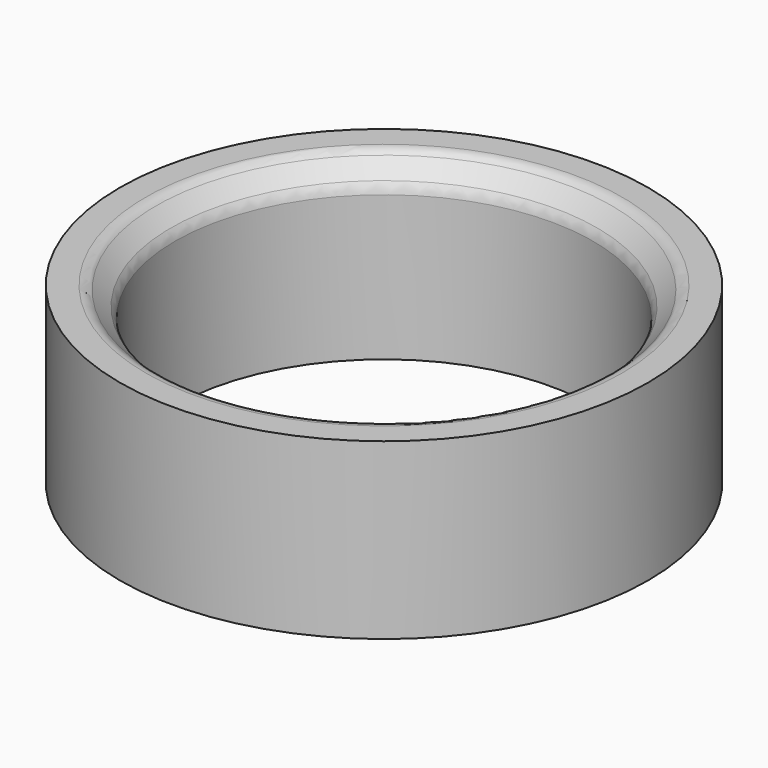
from build123d import *

# Parameters (mm, degrees)
F2_R = 1.5
F3_R = 1.5


with BuildPart() as f1:
    # F0 (on Front) → F1 (revolve)
    with BuildSketch(Plane.XZ):
        Polygon((21.6, 15.6), (21.6, 0), (27.3, 0), (27.3, 18), (24, 18), align=None)
    revolve(axis=Axis((0, 0, 4.861747), (0, 0, -1)))

    # F2
    f2_edges = [f1.edges().sort_by_distance(p)[0] for p in [
        (-21.6, 0, 15.6),
    ]]
    fillet(f2_edges, radius=F2_R)

    # F3
    f3_edges = [f1.edges().sort_by_distance(p)[0] for p in [
        (-24, 0, 18),
    ]]
    fillet(f3_edges, radius=F3_R)


solid = f1.part
